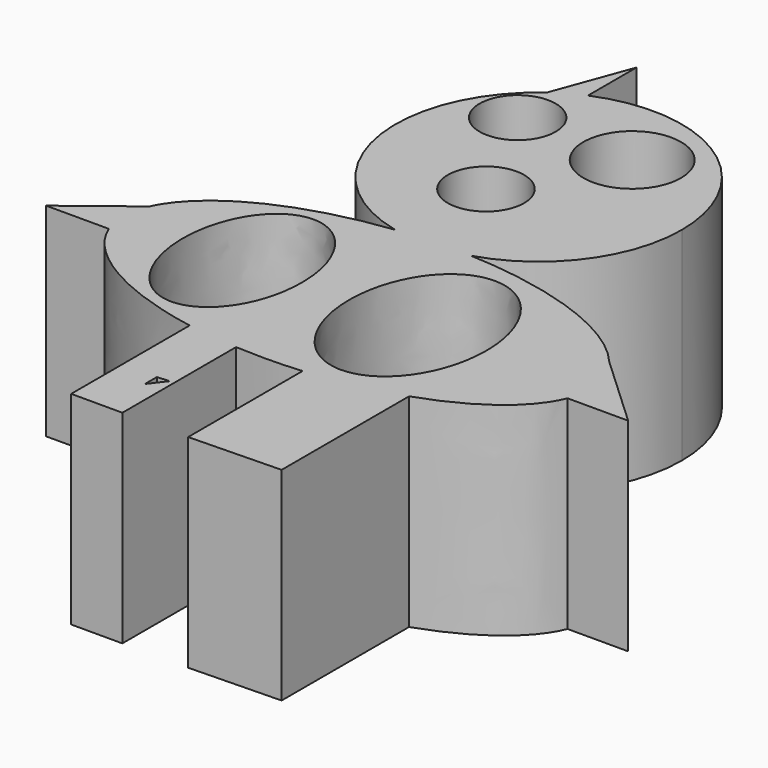
from build123d import *

# Parameters (mm, degrees)
F0_R     = 4.7711916883
F0_R_2   = 4.7613647894
F0_R_3   = 6.1041229628
F1_DEPTH = 25.4


with BuildPart() as f1:
    # F0 (on Top) → F1 (new body)
    with BuildSketch(Plane.XY):
        with BuildLine():
            ThreePointArc((-2.3834723769, 14.7335868041), (6.7708145364, 21.2048433436), (10.2811511978, 31.8517051637))
            ThreePointArc((10.2811511978, 31.8517051637), (9.2832492744, 37.7450384206), (6.4007998444, 42.9813224473))
            ThreePointArc((6.4007998444, 42.9813224473), (-3.2131915819, 49.2019569258), (-14.6304005757, 48.3230580392))
            ThreePointArc((-14.6304005757, 48.3230580392), (-16.4531694232, 47.4217500367), (-18.1619622048, 46.3195387975))
            ThreePointArc((-18.1619622048, 46.3195387975), (-25.1524431716, 28.237205957), (-11.5801940434, 14.3940979712))
            add(Edge.make_bspline(
                [(-2.3834723769, 14.7335868041), (-7.0354280003, 14.9346422536), (-11.5801940434, 14.3940979712)],
                knots=[4.6270750198, 4.6270750198, 4.6270750198, 4.9435330198, 4.9435330198, 4.9435330198], degree=2, weights=[1, 0.9875078876, 1]))
        make_face()
        with Locations((-10.0584002212, 26.6696736217)):
            Circle(F0_R, mode=Mode.SUBTRACT)
        with Locations((-17.0687995851, 40.3868146241)):
            Circle(F0_R_2, mode=Mode.SUBTRACT)
        with Locations((-2.743200399, 40.3868146241)):
            Circle(F0_R_3, mode=Mode.SUBTRACT)
        with BuildLine():
            add(Edge.make_bspline(
                [(22.1214600227, 5.7016299698), (15.2843386687, 13.9699918818), (-2.3834723769, 14.7335868041)],
                knots=[3.5374228644, 3.5374228644, 3.5374228644, 4.6270750198, 4.6270750198, 4.6270750198], degree=2, weights=[1, 0.8552174423, 1]))
            ThreePointArc((-2.3834723769, 14.7335868041), (-6.9596439995, 13.9627386839), (-11.5801940434, 14.3940979712))
            add(Edge.make_bspline(
                [(-11.5801940434, 14.3940979712), (-29.3738456361, 12.2777609495), (-33.4139822322, 3.2682511332)],
                knots=[4.9435330198, 4.9435330198, 4.9435330198, 6.0603287801, 6.0603287801, 6.0603287801], degree=2, weights=[1, 0.8481050472, 1]))
            add(Edge.make_bspline(
                [(-33.4139822322, 3.2682511332), (-34.1375991702, 1.6545844287), (-34.1375991702, 0)],
                knots=[6.0603287801, 6.0603287801, 6.0603287801, 6.2831853072, 6.2831853072, 6.2831853072], degree=2, weights=[1, 0.9937982919, 1]))
            add(Edge.make_bspline(
                [(-34.1375991702, 0), (-34.1375991702, -1.4742194162), (-33.5616774216, -2.919422707)],
                knots=[0, 0, 0, 0.1987323453, 0.1987323453, 0.1987323453], degree=2, weights=[1, 0.9950672426, 1]))
            add(Edge.make_bspline(
                [(-33.5616774216, -2.919422707), (-30.2838106145, -11.1448177511), (-14.6304005757, -13.9416649295)],
                knots=[0.1987323453, 0.1987323453, 0.1987323453, 1.2309593836, 1.2309593836, 1.2309593836], degree=2, weights=[1, 0.8697437359, 1]))
            add(Edge.make_bspline(
                [(-14.6304005757, -13.9416649295), (-11.513645687, -14.4985459602), (-8.2296011969, -14.689973876)],
                knots=[1.2309593836, 1.2309593836, 1.2309593836, 1.4559607184, 1.4559607184, 1.4559607184], degree=2, weights=[1, 0.9936784715, 1]))
            add(Edge.make_bspline(
                [(-8.2296011969, -14.689973876), (-4.0994168977, -14.9307235292), (0, -14.5805423613)],
                knots=[1.4559607184, 1.4559607184, 1.4559607184, 1.738244406, 1.738244406, 1.738244406], degree=2, weights=[1, 0.9900560143, 1]))
            add(Edge.make_bspline(
                [(0, -14.5805423613), (6.2254595739, -14.0487499726), (11.4630884569, -12.266961)],
                knots=[1.738244406, 1.738244406, 1.738244406, 2.1632792744, 2.1632792744, 2.1632792744], degree=2, weights=[1, 0.9775030321, 1]))
            add(Edge.make_bspline(
                [(11.4630884569, -12.266961), (21.4348831913, -8.8746561436), (23.8080776587, -2.919422707)],
                knots=[2.1632792744, 2.1632792744, 2.1632792744, 2.9428603083, 2.9428603083, 2.9428603083], degree=2, weights=[1, 0.9249886826, 1]))
            add(Edge.make_bspline(
                [(23.8080776587, -2.919422707), (25.5778774469, 1.5216675701), (22.1214600227, 5.7016299698)],
                knots=[2.9428603083, 2.9428603083, 2.9428603083, 3.5374228644, 3.5374228644, 3.5374228644], degree=2, weights=[1, 0.9561363948, 1]))
        make_face()
        with BuildLine():
            add(Edge.make_bspline(
                [(-19.2023999989, -11.1286630854), (-6.264546995, -11.1286630854), (-12.7334734969, 5.5643315427), (-19.2023999989, 22.2573261708), (-25.6713265009, 5.5643315427), (-32.1402530028, -11.1286630854), (-19.2023999989, -11.1286630854)],
                knots=[0, 0, 0, 2.0943951024, 2.0943951024, 4.1887902048, 4.1887902048, 6.2831853072, 6.2831853072, 6.2831853072], degree=2, weights=[1, 0.5, 1, 0.5, 1, 0.5, 1]))
        make_face(mode=Mode.SUBTRACT)
        with BuildLine():
            add(Edge.make_bspline(
                [(2.7432013303, -12.043138966), (17.6192607071, -12.043138966), (10.1812310187, 6.021569483), (2.7432013303, 24.0862779319), (-4.6948283581, 6.021569483), (-12.1328580465, -12.043138966), (2.7432013303, -12.043138966)],
                knots=[0, 0, 0, 2.0943951024, 2.0943951024, 4.1887902048, 4.1887902048, 6.2831853072, 6.2831853072, 6.2831853072], degree=2, weights=[1, 0.5, 1, 0.5, 1, 0.5, 1]))
        make_face(mode=Mode.SUBTRACT)
        with BuildLine():
            ThreePointArc((-11.5801940434, 14.3940979712), (-6.9596439995, 13.9627386839), (-2.3834723769, 14.7335868041))
            add(Edge.make_bspline(
                [(-2.3834723769, 14.7335868041), (-7.0354280003, 14.9346422536), (-11.5801940434, 14.3940979712)],
                knots=[4.6270750198, 4.6270750198, 4.6270750198, 4.9435330198, 4.9435330198, 4.9435330198], degree=2, weights=[1, 0.9875078876, 1]))
        make_face()
        with BuildLine():
            ThreePointArc((-18.1619622048, 46.3195387975), (-16.4531694232, 47.4217500367), (-14.6304005757, 48.3230580392))
            Line((-14.6304005757, 48.3230580392), (-14.6304005757, 55.9329017997))
            Line((-14.6304005757, 55.9329017997), (-18.1619622048, 46.3195387975))
        make_face()
        with BuildLine():
            Line((31.3943997025, -2.919422707), (22.1214600227, 5.7016299698))
            add(Edge.make_bspline(
                [(23.8080776587, -2.919422707), (25.5778774469, 1.5216675701), (22.1214600227, 5.7016299698)],
                knots=[2.9428603083, 2.9428603083, 2.9428603083, 3.5374228644, 3.5374228644, 3.5374228644], degree=2, weights=[1, 0.9561363948, 1]))
            Line((23.8080776587, -2.919422707), (31.3943997025, -2.919422707))
        make_face()
        with BuildLine():
            add(Edge.make_bspline(
                [(-33.4139822322, 3.2682511332), (-34.1375991702, 1.6545844287), (-34.1375991702, 0)],
                knots=[6.0603287801, 6.0603287801, 6.0603287801, 6.2831853072, 6.2831853072, 6.2831853072], degree=2, weights=[1, 0.9937982919, 1]))
            Line((-33.4139822322, 3.2682511332), (-41.4058740862, -2.919422707))
            Line((-41.4058740862, -2.919422707), (-33.5616774216, -2.919422707))
            add(Edge.make_bspline(
                [(-34.1375991702, 0), (-34.1375991702, -1.4742194162), (-33.5616774216, -2.919422707)],
                knots=[0, 0, 0, 0.1987323453, 0.1987323453, 0.1987323453], degree=2, weights=[1, 0.9950672426, 1]))
        make_face()
        with BuildLine():
            Line((11.4630884569, -32.1820458154), (11.4630884569, -12.266961))
            add(Edge.make_bspline(
                [(0, -14.5805423613), (6.2254595739, -14.0487499726), (11.4630884569, -12.266961)],
                knots=[1.738244406, 1.738244406, 1.738244406, 2.1632792744, 2.1632792744, 2.1632792744], degree=2, weights=[1, 0.9775030321, 1]))
            Line((0, -14.5805423613), (0, -32.4664339423))
            Line((0, -32.4664339423), (11.4630884569, -32.1820458154))
        make_face()
        with BuildLine():
            add(Edge.make_bspline(
                [(-14.6304005757, -13.9416649295), (-11.513645687, -14.4985459602), (-8.2296011969, -14.689973876)],
                knots=[1.2309593836, 1.2309593836, 1.2309593836, 1.4559607184, 1.4559607184, 1.4559607184], degree=2, weights=[1, 0.9936784715, 1]))
            Line((-14.6304005757, -13.9416649295), (-14.6304005757, -32.4664339423))
            Line((-14.6304005757, -32.4664339423), (-8.2296011969, -32.4664339423))
            Line((-8.2296011969, -32.4664339423), (-8.2296011969, -23.6265007406))
            Line((-8.2296011969, -23.6265007406), (-8.2296011969, -14.689973876))
        make_face()
        Polygon((-10.3112606525, -24.4741483223), (-8.776831993, -24.3421139402), (-10.3112606525, -26.3486848613), align=None, mode=Mode.SUBTRACT)
    extrude(amount=F1_DEPTH)


solid = f1.part
